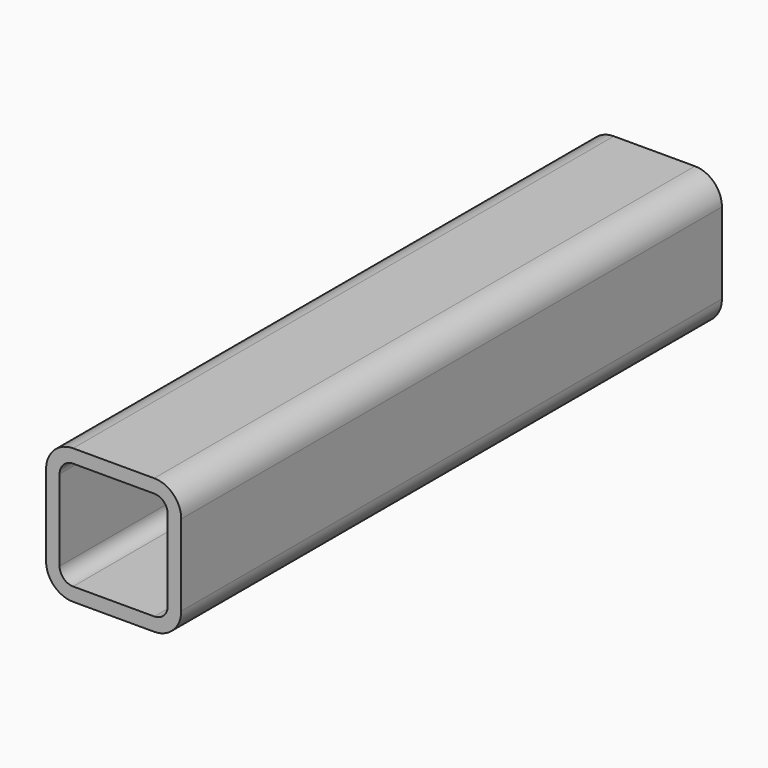
from build123d import *

# Parameters (mm, degrees)
F1_DEPTH = 250


with BuildPart() as f1:
    # F0 (on Front) → F1 (new body, symmetric)
    with BuildSketch(Plane.XZ):
        with BuildLine():
            ThreePointArc((50, 30), (44.1421356237, 44.1421356237), (30, 50))
            Line((30, 50), (-30, 50))
            ThreePointArc((-30, 50), (-44.1421356237, 44.1421356237), (-50, 30))
            Line((-50, 30), (-50, -30))
            ThreePointArc((-50, -30), (-44.1421356237, -44.1421356237), (-30, -50))
            Line((-30, -50), (30, -50))
            ThreePointArc((30, -50), (44.1421356237, -44.1421356237), (50, -30))
            Line((50, -30), (50, 30))
        make_face()
        with BuildLine():
            Line((-40, -30), (-40, 30))
            ThreePointArc((-40, 30), (-37.0710678119, 37.0710678119), (-30, 40))
            Line((-30, 40), (30, 40))
            ThreePointArc((30, 40), (37.0710678119, 37.0710678119), (40, 30))
            Line((40, 30), (40, -30))
            ThreePointArc((40, -30), (37.0710678119, -37.0710678119), (30, -40))
            Line((30, -40), (-30, -40))
            ThreePointArc((-30, -40), (-37.0710678119, -37.0710678119), (-40, -30))
        make_face(mode=Mode.SUBTRACT)
    extrude(amount=F1_DEPTH, both=True)


solid = f1.part
